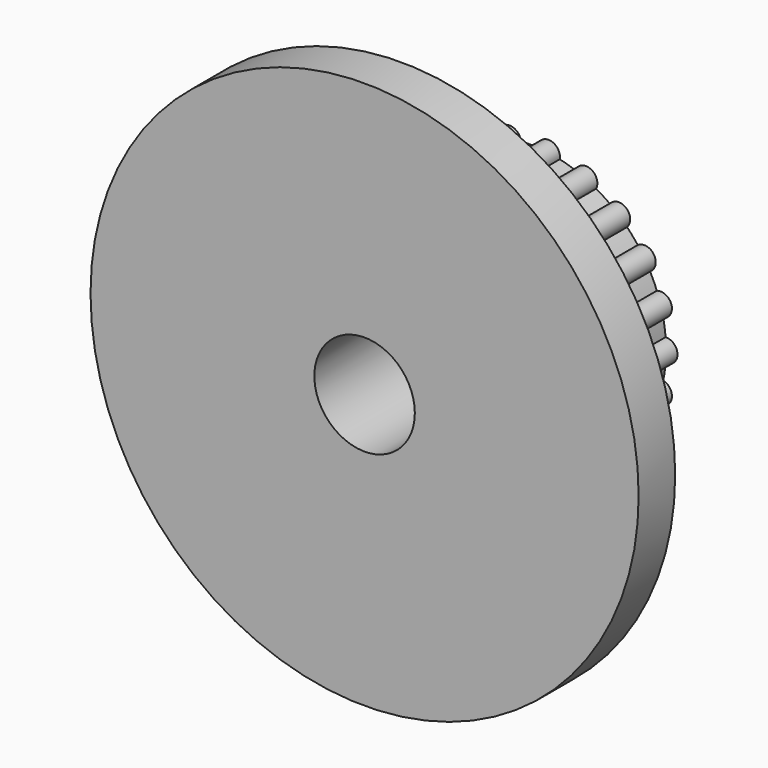
from build123d import *

# Parameters (mm, degrees)
CYLINDER011007_R     = 2.2
CYLINDER011007_DEPTH = 20
CYLINDER011006_R     = 12
CYLINDER011006_DEPTH = 2
CYLINDER011009_R     = 0.5
CYLINDER011009_DEPTH = 7
ARRAY007_COUNT       = 22
CYLINDER011005_R     = 6
CYLINDER011005_DEPTH = 7


with BuildPart() as belt_attach_insert_hole:
    # Cylinder011007 → Cylinder011007 (new body)
    with BuildSketch(Plane.XZ):
        Circle(CYLINDER011007_R)
    extrude(amount=CYLINDER011007_DEPTH)


with BuildPart() as belt_disk:
    # Cylinder011006 → Cylinder011006 (new body)
    with BuildSketch(Plane.XZ.offset(7)):
        Circle(CYLINDER011006_R)
    extrude(amount=CYLINDER011006_DEPTH)


with BuildPart() as belt_pin_array:
    # Cylinder011009 → Cylinder011009 (new body)
    with BuildSketch(Plane(origin=(6, 0, 0), x_dir=(1, 0, 0), z_dir=(0, -1, 0))):
        Circle(CYLINDER011009_R)
    extrude(amount=CYLINDER011009_DEPTH)

    # Array007: belt pin array ×22 about axis
    array007_axis = Axis((0, 0, 0), (0, 1, 0))


with BuildPart() as belt_pin_array_1:
    add(belt_pin_array.part)
    for i in range(1, ARRAY007_COUNT):
        add(belt_pin_array.part.rotate(array007_axis, i * 360 / ARRAY007_COUNT))


with BuildPart() as belt_attach_cut:
    # Cylinder011005 → Cylinder011005 (new body)
    with BuildSketch(Plane.XZ):
        Circle(CYLINDER011005_R)
    extrude(amount=CYLINDER011005_DEPTH)

    # Fusion003: union belt disk, belt pin array
    add(belt_disk.part)
    add(belt_pin_array_1.part)

    # Cut023015009007: cut belt attach insert hole
    add(belt_attach_insert_hole.part, mode=Mode.SUBTRACT)


solid = belt_attach_cut.part
